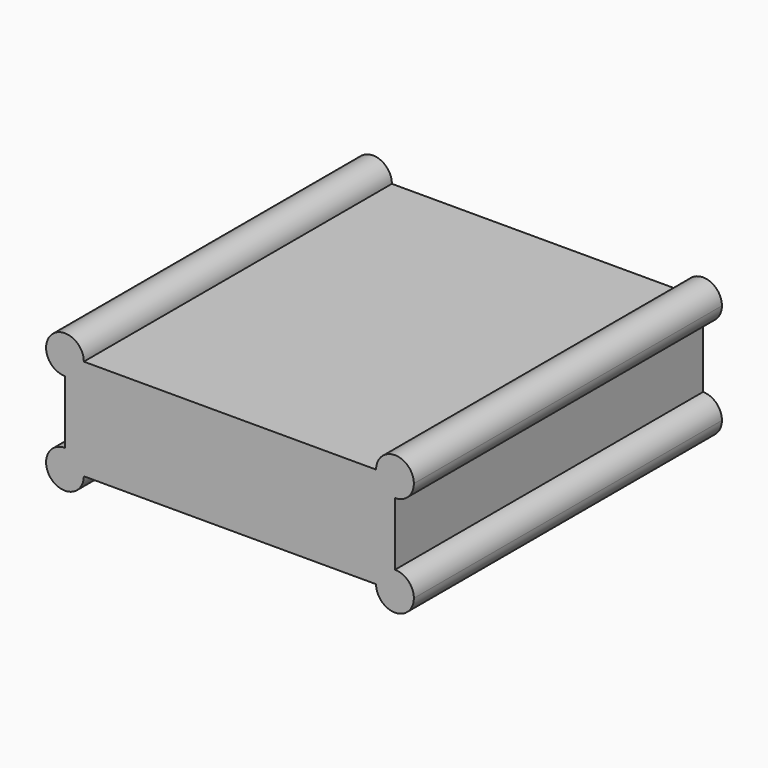
from build123d import *

# Parameters (mm, degrees)
F1_DEPTH = 90.678


with BuildPart() as f1:
    # F0 (on Front) → F1 (new body)
    with BuildSketch(Plane.XZ):
        with BuildLine():
            Line((-38.8602614403, 7.4346788156), (-38.8602614403, 11.8796788156))
            Line((-38.8602614403, 11.8796788156), (-34.4152614403, 11.8796788156))
            ThreePointArc((-34.4152614403, 11.8796788156), (-42.0033510827, 15.022768458), (-38.8602614403, 7.4346788156))
        make_face()
        with BuildLine():
            Line((-34.4152614403, 11.8796788156), (-38.8602614403, 11.8796788156))
            Line((-38.8602614403, 11.8796788156), (-38.8602614403, 7.4346788156))
            ThreePointArc((-38.8602614403, 7.4346788156), (-35.7171717979, 8.7365891732), (-34.4152614403, 11.8796788156))
        make_face()
        with BuildLine():
            Line((34.4152614403, 11.8796788156), (-34.4152614403, 11.8796788156))
            ThreePointArc((-34.4152614403, 11.8796788156), (-35.7171717979, 8.7365891732), (-38.8602614403, 7.4346788156))
            Line((-38.8602614403, 7.4346788156), (-38.8602614403, -7.4346788156))
            ThreePointArc((-38.8602614403, -7.4346788156), (-35.7171717979, -8.7365891732), (-34.4152614403, -11.8796788156))
            Line((-34.4152614403, -11.8796788156), (34.4152614403, -11.8796788156))
            ThreePointArc((34.4152614403, -11.8796788156), (35.7171717979, -8.7365891732), (38.8602614403, -7.4346788156))
            Line((38.8602614403, -7.4346788156), (38.8602614403, 7.4346788156))
            ThreePointArc((38.8602614403, 7.4346788156), (35.7171717979, 8.7365891732), (34.4152614403, 11.8796788156))
        make_face()
        with BuildLine():
            ThreePointArc((43.3052614403, 11.8796788156), (38.8602614403, 16.3246788156), (34.4152614403, 11.8796788156))
            Line((34.4152614403, 11.8796788156), (38.8602614403, 11.8796788156))
            Line((38.8602614403, 11.8796788156), (38.8602614403, 7.4346788156))
            ThreePointArc((38.8602614403, 7.4346788156), (42.0033510827, 8.7365891732), (43.3052614403, 11.8796788156))
        make_face()
        with BuildLine():
            Line((38.8602614403, 11.8796788156), (34.4152614403, 11.8796788156))
            ThreePointArc((34.4152614403, 11.8796788156), (35.7171717979, 8.7365891732), (38.8602614403, 7.4346788156))
            Line((38.8602614403, 7.4346788156), (38.8602614403, 11.8796788156))
        make_face()
        with BuildLine():
            ThreePointArc((-34.4152614403, -11.8796788156), (-35.7171717979, -8.7365891732), (-38.8602614403, -7.4346788156))
            Line((-38.8602614403, -7.4346788156), (-38.8602614403, -11.8796788156))
            Line((-38.8602614403, -11.8796788156), (-34.4152614403, -11.8796788156))
        make_face()
        with BuildLine():
            Line((-38.8602614403, -11.8796788156), (-38.8602614403, -7.4346788156))
            ThreePointArc((-38.8602614403, -7.4346788156), (-42.0033510827, -15.022768458), (-34.4152614403, -11.8796788156))
            Line((-34.4152614403, -11.8796788156), (-38.8602614403, -11.8796788156))
        make_face()
        with BuildLine():
            ThreePointArc((43.3052614403, -11.8796788156), (42.0033510827, -8.7365891732), (38.8602614403, -7.4346788156))
            Line((38.8602614403, -7.4346788156), (38.8602614403, -11.8796788156))
            Line((38.8602614403, -11.8796788156), (34.4152614403, -11.8796788156))
            ThreePointArc((34.4152614403, -11.8796788156), (38.8602614403, -16.3246788156), (43.3052614403, -11.8796788156))
        make_face()
        with BuildLine():
            Line((38.8602614403, -11.8796788156), (38.8602614403, -7.4346788156))
            ThreePointArc((38.8602614403, -7.4346788156), (35.7171717979, -8.7365891732), (34.4152614403, -11.8796788156))
            Line((34.4152614403, -11.8796788156), (38.8602614403, -11.8796788156))
        make_face()
    extrude(amount=F1_DEPTH)


solid = f1.part
